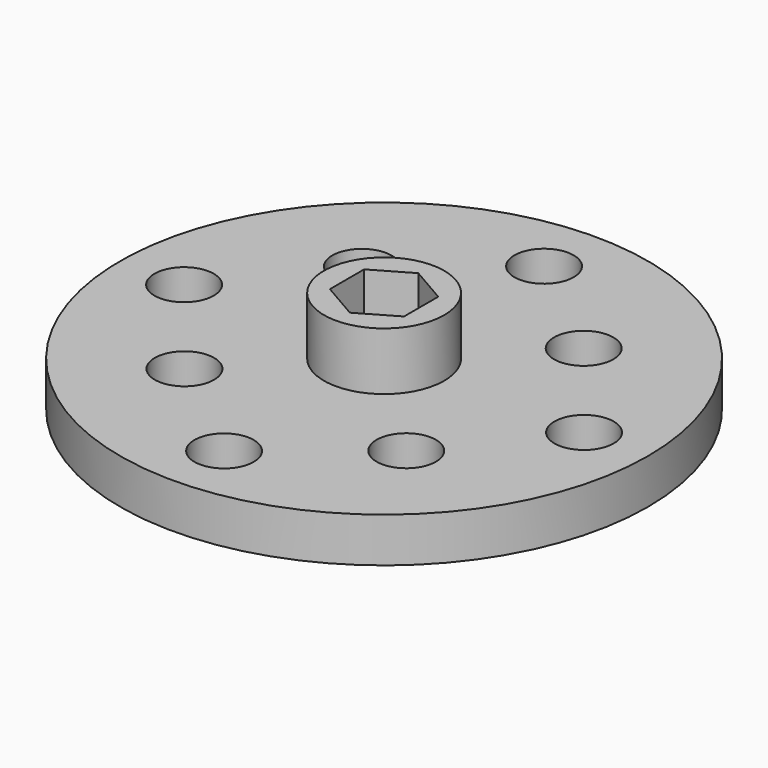
from build123d import *

# Parameters (mm, degrees)
F0_R     = 17.125
F0_R_2   = 1.925
F1_DEPTH = 2.9
F2_R     = 3.9
F3_DEPTH = 3.75
F4_R     = 3.525
F5_DEPTH = 1.2
F4_R_2   = 3.4
F6_DEPTH = 2.6
F7_DEPTH = 25


with BuildPart() as f1:
    # F0 (on Top) → F1 (new body)
    with BuildSketch(Plane.XY):
        Circle(F0_R)
        with Locations((-7.194811, -7.194811)):
            Circle(F0_R_2, mode=Mode.SUBTRACT)
        with Locations((0, -12.975)):
            Circle(F0_R_2, mode=Mode.SUBTRACT)
        with Locations((7.194811, -7.194811)):
            Circle(F0_R_2, mode=Mode.SUBTRACT)
        with Locations((-12.975, 0)):
            Circle(F0_R_2, mode=Mode.SUBTRACT)
        with Locations((-7.194811, 7.194811)):
            Circle(F0_R_2, mode=Mode.SUBTRACT)
        with Locations((7.194811, 7.194811)):
            Circle(F0_R_2, mode=Mode.SUBTRACT)
        with Locations((12.975, 0)):
            Circle(F0_R_2, mode=Mode.SUBTRACT)
        with Locations((0, 12.975)):
            Circle(F0_R_2, mode=Mode.SUBTRACT)
    extrude(amount=F1_DEPTH)

    # F2 (on face) → F3 (join)
    with BuildSketch(Plane.XY.offset(2.9)):
        Circle(F2_R)
        Polygon((0, 2.775), (2.40322, 1.3875), (2.40322, -1.3875), (0, -2.775), (-2.40322, -1.3875), (-2.40322, 1.3875), align=None, mode=Mode.SUBTRACT)
    extrude(amount=F3_DEPTH)

    # F4 (on face) → F5 (cut)
    with BuildSketch(Plane(origin=(0, 0, 0), x_dir=(1, 0, 0), z_dir=(0, 0, -1))):
        with BuildLine():
            ThreePointArc((2.542302, -15.416787), (11.048543, -11.048543), (15.416787, -2.542302))
            ThreePointArc((15.416787, -2.542302), (12.200468, -3.438855), (9.679074, -1.25))
            Line((9.679074, -1.25), (4.841229, -1.25))
            ThreePointArc((4.841229, -1.25), (3.535534, -3.535534), (1.25, -4.841229))
            Line((1.25, -4.841229), (1.25, -9.679074))
            ThreePointArc((1.25, -9.679074), (2.901024, -10.97258), (3.525, -12.975))
            ThreePointArc((3.525, -12.975), (3.27011, -14.291057), (2.542302, -15.416787))
        make_face()
        with Locations((7.194811, -7.194811)):
            Circle(F4_R, mode=Mode.SUBTRACT)
        with BuildLine():
            ThreePointArc((9.679074, 1.25), (12.200468, 3.438855), (15.416787, 2.542302))
            ThreePointArc((15.416787, 2.542302), (11.048543, 11.048543), (2.542302, 15.416787))
            ThreePointArc((2.542302, 15.416787), (3.27011, 14.291057), (3.525, 12.975))
            ThreePointArc((3.525, 12.975), (2.901024, 10.97258), (1.25, 9.679074))
            Line((1.25, 9.679074), (1.25, 4.841229))
            ThreePointArc((1.25, 4.841229), (3.535534, 3.535534), (4.841229, 1.25))
            Line((4.841229, 1.25), (9.679074, 1.25))
        make_face()
        with Locations((7.194811, 7.194811)):
            Circle(F4_R, mode=Mode.SUBTRACT)
        with BuildLine():
            ThreePointArc((-1.25, 9.679074), (-3.438855, 12.200468), (-2.542302, 15.416787))
            ThreePointArc((-2.542302, 15.416787), (-11.048543, 11.048543), (-15.416787, 2.542302))
            ThreePointArc((-15.416787, 2.542302), (-12.200468, 3.438855), (-9.679074, 1.25))
            Line((-9.679074, 1.25), (-4.841229, 1.25))
            ThreePointArc((-4.841229, 1.25), (-3.535534, 3.535534), (-1.25, 4.841229))
            Line((-1.25, 4.841229), (-1.25, 9.679074))
        make_face()
        with Locations((-7.194811, 7.194811)):
            Circle(F4_R, mode=Mode.SUBTRACT)
        with BuildLine():
            ThreePointArc((-15.416787, -2.542302), (-11.048543, -11.048543), (-2.542302, -15.416787))
            ThreePointArc((-2.542302, -15.416787), (-3.438855, -12.200468), (-1.25, -9.679074))
            Line((-1.25, -9.679074), (-1.25, -4.841229))
            ThreePointArc((-1.25, -4.841229), (-3.535534, -3.535534), (-4.841229, -1.25))
            Line((-4.841229, -1.25), (-9.679074, -1.25))
            ThreePointArc((-9.679074, -1.25), (-12.200468, -3.438855), (-15.416787, -2.542302))
        make_face()
        with Locations((-7.194811, -7.194811)):
            Circle(F4_R, mode=Mode.SUBTRACT)
    extrude(amount=-F5_DEPTH, mode=Mode.SUBTRACT)

    # F4 (on face) → F6 (cut)
    with BuildSketch(Plane(origin=(0, 0, 0), x_dir=(1, 0, 0), z_dir=(0, 0, -1))):
        Circle(F4_R_2)
        Polygon((0, 1.9), (1.645448, 0.95), (1.645448, -0.95), (0, -1.9), (-1.645448, -0.95), (-1.645448, 0.95), align=None, mode=Mode.SUBTRACT)
    extrude(amount=-F6_DEPTH, mode=Mode.SUBTRACT)

    # F4 (on face) → F7 (cut)
    with BuildSketch(Plane(origin=(0, 0, 0), x_dir=(1, 0, 0), z_dir=(0, 0, -1))):
        Polygon((1.645448, -0.95), (1.645448, 0.95), (0, 1.9), (-1.645448, 0.95), (-1.645448, -0.95), (0, -1.9), align=None)
    extrude(amount=-F7_DEPTH, mode=Mode.SUBTRACT)


solid = f1.part
